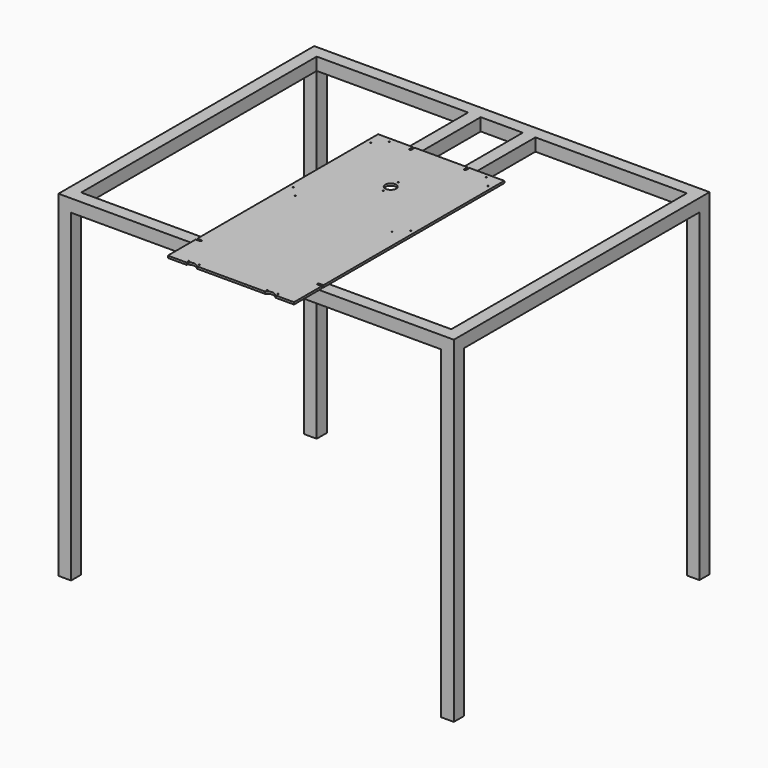
from build123d import *

# Parameters (mm, degrees)
F1_W     = 940
F1_H     = 760
F1_W_2   = 30
F1_H_2   = 700
F2_DEPTH = 30
F0_R     = 1.4
F0_R_2   = 13
F3_DEPTH = 5
F4_W     = 30
F4_H     = 30
F5_DEPTH = 770


with BuildPart() as f2:
    # F1 (on Top) → F2 (new body)
    with BuildSketch(Plane.XY):
        with Locations((0, -20)):
            Rectangle(F1_W, F1_H)
        Polygon((-440, -370), (-440, 330), (-80, 330), (-50, 330), (50, 330), (80, 330), (440, 330), (440, -370), (80, -370), (50, -370), (-50, -370), (-80, -370), align=None, mode=Mode.SUBTRACT)
        with Locations((-65, -20)):
            Rectangle(F1_W_2, F1_H_2)
        with Locations((65, -20)):
            Rectangle(F1_W_2, F1_H_2)
    extrude(amount=-F2_DEPTH)

    # F0 (on Top) → F3 (join)
    with BuildSketch(Plane.XY):
        with BuildLine():
            Line((-67.5, 150), (-150, 150))
            Line((-150, 150), (-150, -387.5))
            Line((-150, -387.5), (-140, -387.5))
            ThreePointArc((-140, -387.5), (-137.5, -390), (-140, -392.5))
            Line((-140, -392.5), (-150, -392.5))
            Line((-150, -392.5), (-150, -475))
            Line((-150, -475), (-106, -475))
            ThreePointArc((-106, -475), (-93.5, -469), (-81, -475))
            Line((-81, -475), (0, -475))
            Line((0, -475), (81, -475))
            ThreePointArc((81, -475), (93.5, -469), (106, -475))
            Line((106, -475), (150, -475))
            Line((150, -475), (150, -392.5))
            Line((150, -392.5), (140, -392.5))
            ThreePointArc((140, -392.5), (137.5, -390), (140, -387.5))
            Line((140, -387.5), (150, -387.5))
            Line((150, -387.5), (150, 150))
            Line((150, 150), (67.5, 150))
            Line((67.5, 150), (67.5, 140))
            ThreePointArc((67.5, 140), (65, 137.5), (62.5, 140))
            Line((62.5, 140), (62.5, 150))
            Line((62.5, 150), (-62.5, 150))
            Line((-62.5, 150), (-62.5, 140))
            ThreePointArc((-62.5, 140), (-65, 137.5), (-67.5, 140))
            Line((-67.5, 140), (-67.5, 150))
        make_face()
        with Locations((-106, -468)):
            Circle(F0_R, mode=Mode.SUBTRACT)
        with Locations((-81, -468)):
            Circle(F0_R, mode=Mode.SUBTRACT)
        with Locations((81, -468)):
            Circle(F0_R, mode=Mode.SUBTRACT)
        with Locations((106, -468)):
            Circle(F0_R, mode=Mode.SUBTRACT)
        with Locations((-114.904852, -139.653589)):
            Circle(F0_R, mode=Mode.SUBTRACT)
        with Locations((-139.653589, -114.904852)):
            Circle(F0_R, mode=Mode.SUBTRACT)
        with Locations((-139.653589, 114.904852)):
            Circle(F0_R, mode=Mode.SUBTRACT)
        with Locations((-114.904852, 139.653589)):
            Circle(F0_R, mode=Mode.SUBTRACT)
        with Locations((0, -22)):
            Circle(F0_R, mode=Mode.SUBTRACT)
        with Locations((114.904852, -139.653589)):
            Circle(F0_R, mode=Mode.SUBTRACT)
        with Locations((139.653589, -114.904852)):
            Circle(F0_R, mode=Mode.SUBTRACT)
        Circle(F0_R_2, mode=Mode.SUBTRACT)
        with Locations((0, 22)):
            Circle(F0_R, mode=Mode.SUBTRACT)
        with Locations((114.904852, 139.653589)):
            Circle(F0_R, mode=Mode.SUBTRACT)
        with Locations((139.653589, 114.904852)):
            Circle(F0_R, mode=Mode.SUBTRACT)
    extrude(amount=F3_DEPTH)

    # F4 (on face) → F5 (join)
    with BuildSketch(Plane(origin=(0, 0, -30), x_dir=(1, 0, 0), z_dir=(0, 0, -1))):
        with Locations((-455, 385)):
            Rectangle(F4_W, F4_H)
        with Locations((-455, -345)):
            Rectangle(F4_W, F4_H)
        with Locations((455, -345)):
            Rectangle(F4_W, F4_H)
        with Locations((455, 385)):
            Rectangle(F4_W, F4_H)
    extrude(amount=F5_DEPTH)


solid = f2.part
